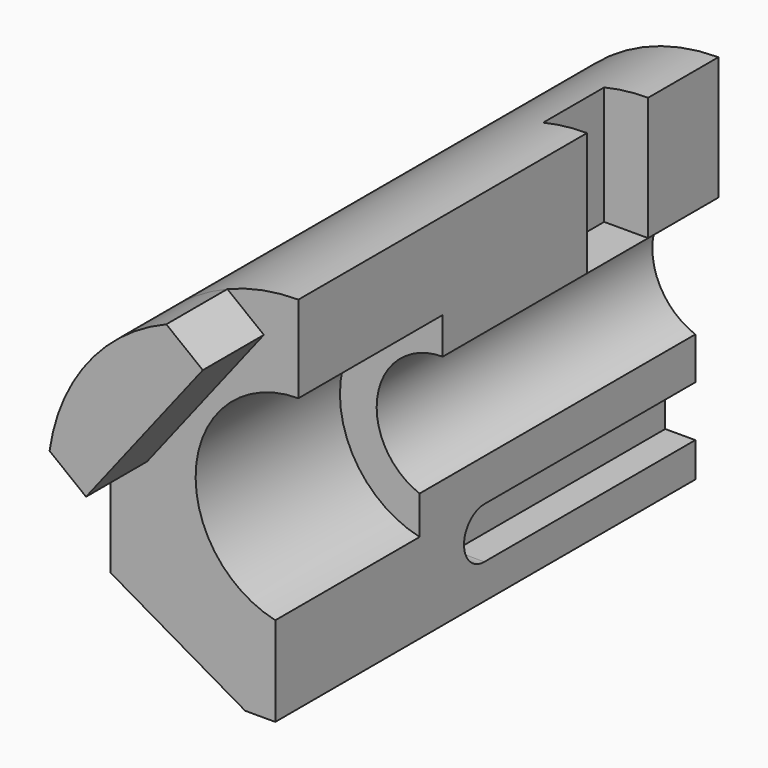
from build123d import *

# Parameters (mm, degrees)
F1_DEPTH  = 227
F3_R      = 44.45
F4_DEPTH  = 78.001
F6_DEPTH  = 33
F7_W      = 33
F7_H      = 53.425
F8_DEPTH  = 19
F10_DEPTH = 13


with BuildPart() as f1:
    # F0 (on Front) → F1 (new body)
    with BuildSketch(Plane.XZ):
        with BuildLine():
            Line((0, 28.575), (0, 82))
            ThreePointArc((0, 82), (-53.7968403772, 61.8861855783), (-81.2019816368, 11.4121942787))
            Line((-81.2019816368, 11.4121942787), (-81.2019816368, -48.3970702346))
            Line((-81.2019816368, -48.3970702346), (-23, -82))
            Line((-23, -82), (-10, -82))
            Line((-10, -82), (-10, -26.7680896778))
            ThreePointArc((-10, -26.7680896778), (-28.1196442682, 5.0809675484), (0, 28.575))
        make_face()
    extrude(amount=-F1_DEPTH)

    # F3 (on offset) → F4 (cut, through all)
    with BuildSketch(Plane.XZ.offset(-78)):
        Circle(F3_R)
    extrude(amount=F4_DEPTH, mode=Mode.SUBTRACT)

    # F5 (on face) → F6 (join)
    with BuildSketch(Plane.XZ):
        with BuildLine():
            Line((-14.9464279456, 63.7071761395), (-30.7177406601, 76.0290760745))
            ThreePointArc((-30.7177406601, 76.0290760745), (-64.6168817958, 50.4842409767), (-81.2019816368, 11.4121942787))
            Line((-81.2019816368, 11.4121942787), (-65.4306689223, -0.9097056563))
            Line((-65.4306689223, -0.9097056563), (-14.9464279456, 63.7071761395))
        make_face()
    extrude(amount=F6_DEPTH)

    # F7 (on face) → F8 (cut)
    with BuildSketch(Plane.YZ):
        with Locations((172.5, 55.2875)):
            Rectangle(F7_W, F7_H)
    extrude(amount=-F8_DEPTH, mode=Mode.SUBTRACT)

    # F9 (on face) → F10 (cut)
    with BuildSketch(Plane.YZ.offset(-10)):
        with BuildLine():
            Line((227, -45), (113, -45))
            ThreePointArc((113, -45), (102, -56), (113, -67))
            Line((113, -67), (227, -67))
            Line((227, -67), (227, -45))
        make_face()
    extrude(amount=-F10_DEPTH, mode=Mode.SUBTRACT)


solid = f1.part
